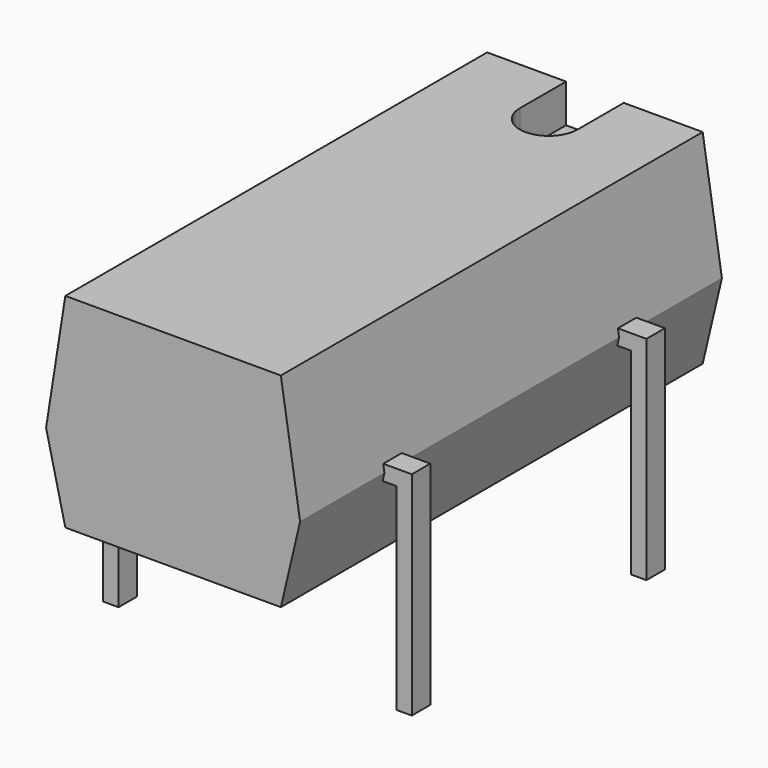
from build123d import *

# Parameters (mm, degrees)
PAD001_DEPTH = 0.3
PAD002_DEPTH = 0.3
PAD_DEPTH    = 6.85
POCKET_DEPTH = 1


with BuildPart() as pad001:
    # Sketch001 → Pad001 (new body, symmetric)
    with BuildSketch(Plane.XZ):
        Polygon((-0.2, -3), (0.2, -3), (0.2, 2.12), (7.42, 2.12), (7.42, -3), (7.82, -3), (7.82, 2.52), (-0.2, 2.52), align=None)
    extrude(amount=PAD001_DEPTH, both=True)


with BuildPart() as pad002:
    # Sketch002 → Pad002 (new body, symmetric)
    with BuildSketch(Plane.XZ.offset(7.62)):
        Polygon((-0.2, -3), (0.2, -3), (0.2, 2.12), (7.42, 2.12), (7.42, -3), (7.82, -3), (7.82, 2.52), (-0.2, 2.52), align=None)
    extrude(amount=PAD002_DEPTH, both=True)


with BuildPart() as pocket:
    # Sketch → Pad (new body, symmetric)
    with BuildSketch(Plane.XZ.offset(3.81)):
        Polygon((1.01, 0.2), (6.61, 0.2), (7.11, 2.32), (6.61, 5.5), (1.01, 5.5), (0.51, 2.32), align=None)
    extrude(amount=PAD_DEPTH, both=True)

    # Sketch003 → Pocket (cut)
    with BuildSketch(Plane(origin=(0, -3.81, 5.5), x_dir=(-1, 0, 0), z_dir=(0, 0, 1))):
        with BuildLine():
            ThreePointArc((-3.06, -5.35), (-3.81, -4.6), (-4.56, -5.35))
            Line((-4.56, -5.35), (-4.56, -6.85))
            Line((-4.56, -6.85), (-3.06, -6.85))
            Line((-3.06, -6.85), (-3.06, -5.35))
        make_face()
    extrude(amount=-POCKET_DEPTH, mode=Mode.SUBTRACT)


solid = Compound([pad001.part, pad002.part, pocket.part])
